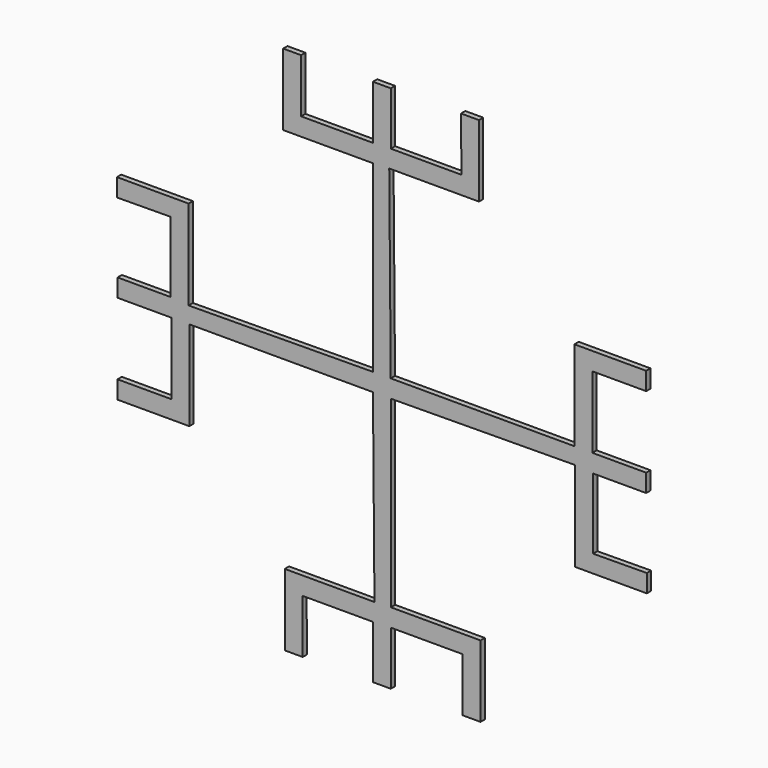
from build123d import *

# Parameters (mm, degrees)
F1_DEPTH = 3


with BuildPart() as f1:
    # F0 (on Front) → F1 (new body)
    with BuildSketch(Plane.XZ):
        Polygon((4.999998, 147.324466), (-5.000002, 147.324466), (-5.000002, 117.324466), (-45.000002, 117.324466), (-45.000002, 147.324468), (-55.000002, 147.324466), (-55.000002, 107.324466), (-5.000002, 107.324466), (-4.994048, 4.960426), (-107.71232, 4.117242), (-107.71232, 54.117242), (-147.71232, 54.117242), (-147.71232, 44.117242), (-117.71232, 44.363503), (-117.71003, 4.999998), (-147.324466, 4.999998), (-147.324466, -5.000002), (-117.324466, -5.000002), (-117.324466, -45.000002), (-147.324468, -45.000002), (-147.324466, -55.000002), (-107.324466, -55.000002), (-107.324466, -5.000002), (-4.960426, -4.994048), (-4.117242, -107.71232), (-54.117242, -107.71232), (-54.117242, -147.71232), (-44.117242, -147.71232), (-44.363503, -117.71232), (-4.999998, -117.71003), (-4.999998, -147.324466), (5.000002, -147.324466), (5.000002, -117.324466), (45.000002, -117.324466), (45.000002, -147.324468), (55.000002, -147.324466), (55.000002, -107.324466), (5.000002, -107.324466), (4.994048, -4.960426), (107.71232, -4.117242), (107.71232, -54.117242), (147.71232, -54.117242), (147.71232, -44.117242), (117.71232, -44.363503), (117.71003, -4.999998), (147.324466, -4.999998), (147.324466, 5.000002), (117.324466, 5.000002), (117.324466, 45.000002), (147.324468, 45.000002), (147.324466, 55.000002), (107.324466, 55.000002), (107.324466, 5.000002), (4.960426, 4.994048), (4.117242, 107.71232), (54.117242, 107.71232), (54.117242, 147.71232), (44.117242, 147.71232), (44.363503, 117.71232), (4.999998, 117.71003), align=None)
    extrude(amount=F1_DEPTH)


solid = f1.part
